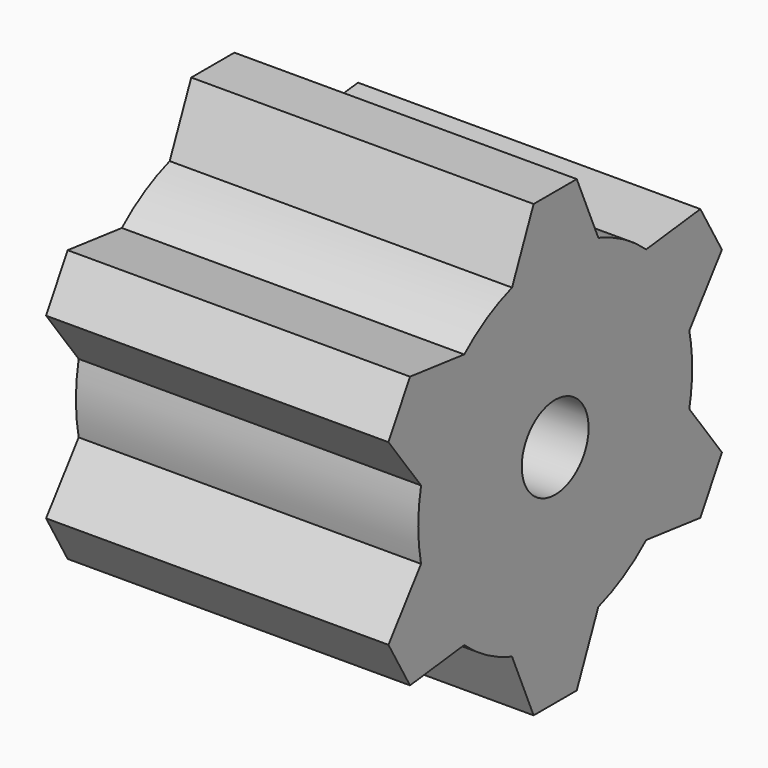
from build123d import *

# Parameters (mm, degrees)
F1_DEPTH = 25.4
F3_DEPTH = 25.4


with BuildPart() as f1:
    # F0 (on Right) → F1 (new body)
    with BuildSketch(Plane.YZ):
        with BuildLine():
            ThreePointArc((12.43875, -2.562713), (12.634519, -1.287998), (12.7, 0))
            ThreePointArc((12.7, 0), (12.634519, 1.287998), (12.43875, 2.562713))
            ThreePointArc((12.43875, 2.562713), (10.998523, 6.35), (8.43875, 9.490917))
            ThreePointArc((8.43875, 9.490917), (6.35, 10.998523), (4, 12.05363))
            ThreePointArc((4, 12.05363), (0, 12.7), (-4, 12.05363))
            ThreePointArc((-4, 12.05363), (-6.35, 10.998523), (-8.43875, 9.490917))
            ThreePointArc((-8.43875, 9.490917), (-10.998523, 6.35), (-12.43875, 2.562713))
            ThreePointArc((-12.43875, 2.562713), (-12.7, 0), (-12.43875, -2.562713))
            ThreePointArc((-12.43875, -2.562713), (-10.998523, -6.35), (-8.43875, -9.490917))
            ThreePointArc((-8.43875, -9.490917), (-6.35, -10.998523), (-4, -12.05363))
            ThreePointArc((-4, -12.05363), (0, -12.7), (4, -12.05363))
            ThreePointArc((4, -12.05363), (6.35, -10.998523), (8.43875, -9.490917))
            ThreePointArc((8.43875, -9.490917), (10.998523, -6.35), (12.43875, -2.562713))
        make_face()
        with BuildLine():
            ThreePointArc((8.43875, 9.490917), (10.998523, 6.35), (12.43875, 2.562713))
            Line((12.43875, 2.562713), (15.462624, 6.617949))
            Line((15.462624, 6.617949), (14.462624, 8.35))
            Line((14.462624, 8.35), (13.462624, 10.082051))
            Line((13.462624, 10.082051), (8.43875, 9.490917))
        make_face()
        with BuildLine():
            Line((15.462624, -6.617949), (12.43875, -2.562713))
            ThreePointArc((12.43875, -2.562713), (10.998523, -6.35), (8.43875, -9.490917))
            Line((8.43875, -9.490917), (13.462624, -10.082051))
            Line((13.462624, -10.082051), (14.462624, -8.35))
            Line((14.462624, -8.35), (15.462624, -6.617949))
        make_face()
        with BuildLine():
            ThreePointArc((-4, 12.05363), (0, 12.7), (4, 12.05363))
            Line((4, 12.05363), (2, 16.7))
            Line((2, 16.7), (0, 16.7))
            Line((0, 16.7), (-2, 16.7))
            Line((-2, 16.7), (-4, 12.05363))
        make_face()
        with BuildLine():
            Line((2, -16.7), (4, -12.05363))
            ThreePointArc((4, -12.05363), (0, -12.7), (-4, -12.05363))
            Line((-4, -12.05363), (-2, -16.7))
            Line((-2, -16.7), (0, -16.7))
            Line((0, -16.7), (2, -16.7))
        make_face()
        with BuildLine():
            ThreePointArc((-12.43875, 2.562713), (-10.998523, 6.35), (-8.43875, 9.490917))
            Line((-8.43875, 9.490917), (-13.462624, 10.082051))
            Line((-13.462624, 10.082051), (-14.462624, 8.35))
            Line((-14.462624, 8.35), (-15.462624, 6.617949))
            Line((-15.462624, 6.617949), (-12.43875, 2.562713))
        make_face()
        with BuildLine():
            Line((-13.462624, -10.082051), (-8.43875, -9.490917))
            ThreePointArc((-8.43875, -9.490917), (-10.998523, -6.35), (-12.43875, -2.562713))
            Line((-12.43875, -2.562713), (-15.462624, -6.617949))
            Line((-15.462624, -6.617949), (-14.462624, -8.35))
            Line((-14.462624, -8.35), (-13.462624, -10.082051))
        make_face()
    extrude(amount=F1_DEPTH)

    # F2 (on face) → F3 (cut)
    with BuildSketch(Plane.YZ.offset(25.4)):
        with BuildLine():
            ThreePointArc((2.077989, 2.300426), (0, 3.1), (-2.077989, 2.300426))
            ThreePointArc((-2.077989, 2.300426), (0, -3.1), (2.077989, 2.300426))
        make_face()
    extrude(amount=-F3_DEPTH, mode=Mode.SUBTRACT)


solid = f1.part
